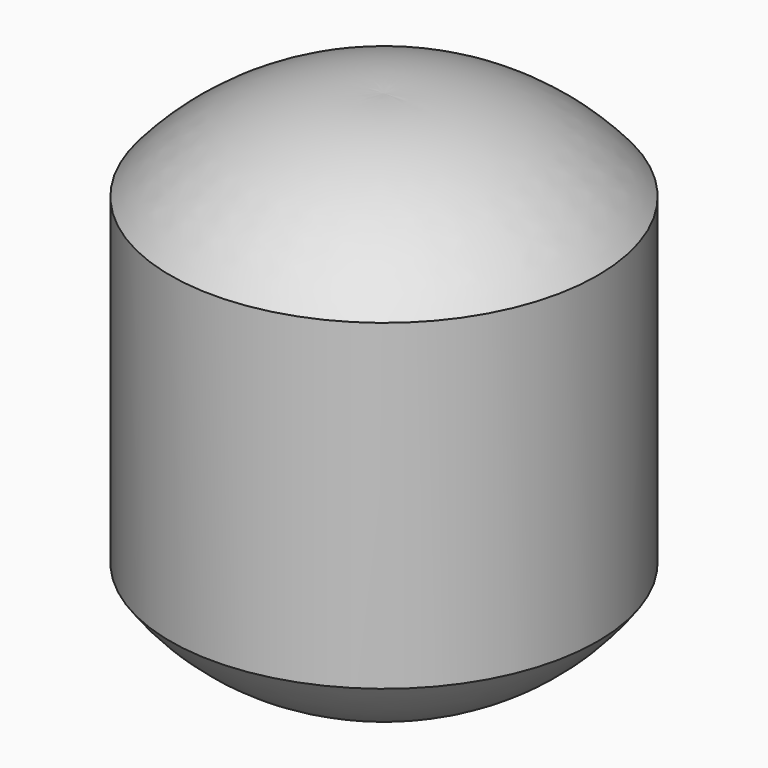
from build123d import *

# Parameters (mm, degrees)
F0_W = 23.7974449992
F0_H = 35.868614912


with BuildPart() as f1:
    # F0 (on Front) → F1 (revolve)
    with BuildSketch(Plane.XZ):
        with BuildLine():
            Line((23.7974449992, 0), (0, 0))
            Line((0, 0), (0, -10.8065698296))
            ThreePointArc((0, -10.8065698296), (13.3654512771, -8.6332087446), (23.7974449992, 0))
        make_face()
        with Locations((11.8987224996, 17.934307456)):
            Rectangle(F0_W, F0_H)
        with BuildLine():
            Line((0, 45.9854006767), (0, 35.868614912))
            Line((0, 35.868614912), (23.7974449992, 35.868614912))
            ThreePointArc((23.7974449992, 35.868614912), (13.0816459081, 43.7095669397), (0, 45.9854006767))
        make_face()
    revolve(axis=Axis((0, 0, 17.5894154236), (0, 0, -1)))


solid = f1.part
